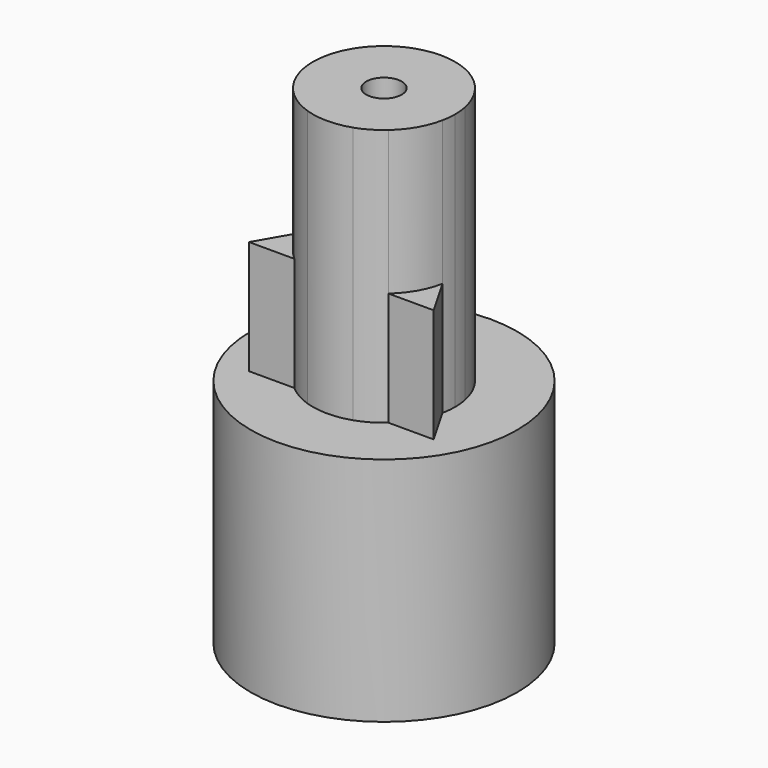
from build123d import *

# Parameters (mm, degrees)
F1_DEPTH = 19.4
F2_DEPTH = 27.5
F0_R     = 7.5
F3_DEPTH = 13
F4_R     = 1
F5_DEPTH = 30


with BuildPart() as f1:
    # F0 (on Top) → F1 (new body)
    with BuildSketch(Plane.XY):
        with BuildLine():
            Line((5.1961524227, -3), (3.9209518669, -0.7912878475))
            ThreePointArc((3.9209518669, -0.7912878475), (3.4641016151, -2), (2.6457513111, -3))
            Line((2.6457513111, -3), (5.1961524227, -3))
        make_face()
    extrude(amount=F1_DEPTH)


with BuildPart() as f1b:
    # F0 (on Top) → F1, piece 2 (new body)
    with BuildSketch(Plane.XY):
        with BuildLine():
            Line((-5.1961524227, -3), (-2.6457513111, -3))
            ThreePointArc((-2.6457513111, -3), (-3.4641016151, -2), (-3.9209518669, -0.7912878475))
            Line((-3.9209518669, -0.7912878475), (-5.1961524227, -3))
        make_face()
    extrude(amount=F1_DEPTH)


with BuildPart() as f1c:
    # F0 (on Top) → F1, piece 3 (new body)
    with BuildSketch(Plane.XY):
        with BuildLine():
            ThreePointArc((-1.2752005558, 3.7912878475), (0, 4), (1.2752005558, 3.7912878475))
            Line((1.2752005558, 3.7912878475), (0, 6))
            Line((0, 6), (-1.2752005558, 3.7912878475))
        make_face()
    extrude(amount=F1_DEPTH)


with BuildPart() as f2:
    # F0 (on Top) → F2 (new body)
    with BuildSketch(Plane.XY):
        with BuildLine():
            Line((-3.4641016151, 0), (-1.7320508076, 3))
            Line((-1.7320508076, 3), (-2.6457513111, 3))
            ThreePointArc((-2.6457513111, 3), (-3.4641016151, 2), (-3.9209518669, 0.7912878475))
            Line((-3.9209518669, 0.7912878475), (-3.4641016151, 0))
        make_face()
        with BuildLine():
            Line((-1.7320508076, 3), (-1.2752005558, 3.7912878475))
            ThreePointArc((-1.2752005558, 3.7912878475), (-2, 3.4641016151), (-2.6457513111, 3))
            Line((-2.6457513111, 3), (-1.7320508076, 3))
        make_face()
        with BuildLine():
            Line((1.7320508076, 3), (1.2752005558, 3.7912878475))
            ThreePointArc((1.2752005558, 3.7912878475), (0, 4), (-1.2752005558, 3.7912878475))
            Line((-1.2752005558, 3.7912878475), (-1.7320508076, 3))
            Line((-1.7320508076, 3), (1.7320508076, 3))
        make_face()
        with BuildLine():
            Line((1.7320508076, 3), (2.6457513111, 3))
            ThreePointArc((2.6457513111, 3), (2, 3.4641016151), (1.2752005558, 3.7912878475))
            Line((1.2752005558, 3.7912878475), (1.7320508076, 3))
        make_face()
        with BuildLine():
            Line((3.4641016151, 0), (3.9209518669, 0.7912878475))
            ThreePointArc((3.9209518669, 0.7912878475), (3.4641016151, 2), (2.6457513111, 3))
            Line((2.6457513111, 3), (1.7320508076, 3))
            Line((1.7320508076, 3), (3.4641016151, 0))
        make_face()
        with BuildLine():
            ThreePointArc((3.9209518669, -0.7912878475), (3.9801889068, -0.3976132118), (4, 0))
            ThreePointArc((4, 0), (3.9801889068, 0.3976132118), (3.9209518669, 0.7912878475))
            Line((3.9209518669, 0.7912878475), (3.4641016151, 0))
            Line((3.4641016151, 0), (3.9209518669, -0.7912878475))
        make_face()
        with BuildLine():
            ThreePointArc((2.6457513111, -3), (3.4641016151, -2), (3.9209518669, -0.7912878475))
            Line((3.9209518669, -0.7912878475), (3.4641016151, 0))
            Line((3.4641016151, 0), (1.7320508076, -3))
            Line((1.7320508076, -3), (2.6457513111, -3))
        make_face()
        with BuildLine():
            Line((1.2752005558, -3.7912878475), (1.7320508076, -3))
            Line((1.7320508076, -3), (-1.7320508076, -3))
            Line((-1.7320508076, -3), (-1.2752005558, -3.7912878475))
            ThreePointArc((-1.2752005558, -3.7912878475), (0, -4), (1.2752005558, -3.7912878475))
        make_face()
        with BuildLine():
            Line((-1.2752005558, -3.7912878475), (-1.7320508076, -3))
            Line((-1.7320508076, -3), (-2.6457513111, -3))
            ThreePointArc((-2.6457513111, -3), (-2, -3.4641016151), (-1.2752005558, -3.7912878475))
        make_face()
        with BuildLine():
            Line((-2.6457513111, -3), (-1.7320508076, -3))
            Line((-1.7320508076, -3), (-3.4641016151, 0))
            Line((-3.4641016151, 0), (-3.9209518669, -0.7912878475))
            ThreePointArc((-3.9209518669, -0.7912878475), (-3.4641016151, -2), (-2.6457513111, -3))
        make_face()
        with BuildLine():
            Line((-3.9209518669, -0.7912878475), (-3.4641016151, 0))
            Line((-3.4641016151, 0), (-3.9209518669, 0.7912878475))
            ThreePointArc((-3.9209518669, 0.7912878475), (-4, 0), (-3.9209518669, -0.7912878475))
        make_face()
        Polygon((1.7320508076, -3), (3.4641016151, 0), (1.7320508076, 3), (-1.7320508076, 3), (-3.4641016151, 0), (-1.7320508076, -3), align=None)
        with BuildLine():
            ThreePointArc((1.2752005558, -3.7912878475), (2, -3.4641016151), (2.6457513111, -3))
            Line((2.6457513111, -3), (1.7320508076, -3))
            Line((1.7320508076, -3), (1.2752005558, -3.7912878475))
        make_face()
    extrude(amount=F2_DEPTH)

    # F4 (on face) → F5 (cut)
    with BuildSketch(Plane.XY.offset(27.5)):
        Circle(F4_R)
    extrude(amount=-F5_DEPTH, mode=Mode.SUBTRACT)


with BuildPart() as f3:
    # F0 (on Top) → F3 (new body)
    with BuildSketch(Plane.XY):
        Circle(F0_R)
        with BuildLine():
            ThreePointArc((3.9209518669, 0.7912878475), (3.9801889068, 0.3976132118), (4, 0))
            ThreePointArc((4, 0), (3.9801889068, -0.3976132118), (3.9209518669, -0.7912878475))
            Line((3.9209518669, -0.7912878475), (5.1961524227, -3))
            Line((5.1961524227, -3), (2.6457513111, -3))
            ThreePointArc((2.6457513111, -3), (2, -3.4641016151), (1.2752005558, -3.7912878475))
            Line((1.2752005558, -3.7912878475), (0, -6))
            Line((0, -6), (-1.2752005558, -3.7912878475))
            ThreePointArc((-1.2752005558, -3.7912878475), (-2, -3.4641016151), (-2.6457513111, -3))
            Line((-2.6457513111, -3), (-5.1961524227, -3))
            Line((-5.1961524227, -3), (-3.9209518669, -0.7912878475))
            ThreePointArc((-3.9209518669, -0.7912878475), (-4, 0), (-3.9209518669, 0.7912878475))
            Line((-3.9209518669, 0.7912878475), (-5.1961524227, 3))
            Line((-5.1961524227, 3), (-2.6457513111, 3))
            ThreePointArc((-2.6457513111, 3), (-2, 3.4641016151), (-1.2752005558, 3.7912878475))
            Line((-1.2752005558, 3.7912878475), (0, 6))
            Line((0, 6), (1.2752005558, 3.7912878475))
            ThreePointArc((1.2752005558, 3.7912878475), (2, 3.4641016151), (2.6457513111, 3))
            Line((2.6457513111, 3), (5.1961524227, 3))
            Line((5.1961524227, 3), (3.9209518669, 0.7912878475))
        make_face(mode=Mode.SUBTRACT)
        with BuildLine():
            ThreePointArc((-3.9209518669, 0.7912878475), (-3.4641016151, 2), (-2.6457513111, 3))
            Line((-2.6457513111, 3), (-5.1961524227, 3))
            Line((-5.1961524227, 3), (-3.9209518669, 0.7912878475))
        make_face()
        with BuildLine():
            ThreePointArc((2.6457513111, 3), (3.4641016151, 2), (3.9209518669, 0.7912878475))
            Line((3.9209518669, 0.7912878475), (5.1961524227, 3))
            Line((5.1961524227, 3), (2.6457513111, 3))
        make_face()
        with BuildLine():
            Line((0, -6), (1.2752005558, -3.7912878475))
            ThreePointArc((1.2752005558, -3.7912878475), (0, -4), (-1.2752005558, -3.7912878475))
            Line((-1.2752005558, -3.7912878475), (0, -6))
        make_face()
    extrude(amount=F3_DEPTH)


solid = Compound([f1.part, f1b.part, f1c.part, f2.part, f3.part])
